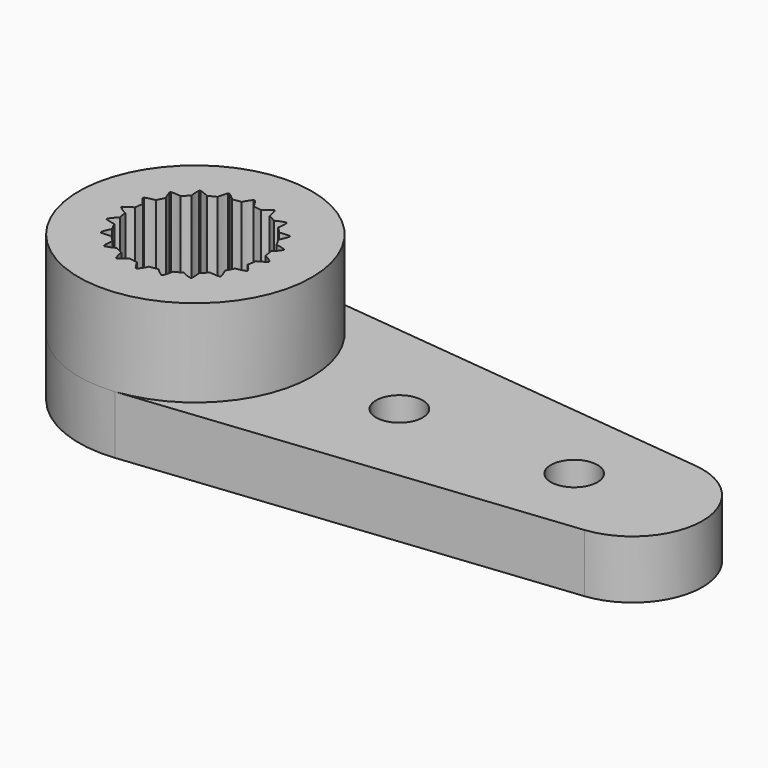
from build123d import *

# Parameters (mm, degrees)
PAD002_DEPTH  = 3
SKETCH_R      = 4
SKETCH_R_2    = 2.25
PAD001_DEPTH  = 3
PAD_DEPTH     = 2
SKETCH002_R   = 1.5
SKETCH002_R_2 = 0.8
POCKET_DEPTH  = 5


with BuildPart() as inner_gear:
    # InvoluteGear → Pad002 (new body)
    with BuildSketch(Plane(origin=(0, 0, 2), x_dir=(0.9876883406, 0.156434465, 0), z_dir=(0, 0, 1))):
        with BuildLine():
            add(Edge.make_bspline(
                [(2.5023944171, -0.3726554366), (2.4087323863, -0.2683318601), (2.3159247461, -0.189782531), (2.2314368651, -0.1339877862), (2.1598788026, -0.0957618967)],
                knots=[0, 0, 0, 0, 0, 1, 1, 1, 1, 1], degree=4))
            ThreePointArc((2.1598788026, -0.0957618967), (2.1577566573, -2.145e-07), (2.1598781768, 0.0957614815))
            add(Edge.make_bspline(
                [(2.1598781768, 0.0957614815), (2.2314368651, 0.1339877862), (2.3159247461, 0.189782531), (2.4087323863, 0.2683318601), (2.5023944171, 0.3726554366)],
                knots=[0, 0, 0, 0, 0, 1, 1, 1, 1, 1], degree=4))
            ThreePointArc((2.5023944171, 0.3726554366), (2.5019281328, 0.396266487), (2.4950753797, 0.4188660202))
            add(Edge.make_bspline(
                [(2.4950753797, 0.4188660202), (2.3737597369, 0.4891404782), (2.2612213483, 0.5351661915), (2.1636270742, 0.562121956), (2.0837588631, 0.5763642799)],
                knots=[0, 0, 0, 0, 0, 1, 1, 1, 1, 1], degree=4))
            ThreePointArc((2.0837588631, 0.5763642799), (2.0521485958, 0.6667832728), (2.0245742893, 0.7585136434))
            add(Edge.make_bspline(
                [(2.0245742893, 0.7585136434), (2.0808180683, 0.8169818704), (2.1439292937, 0.896154017), (2.2079215271, 0.9995380063), (2.2647616538, 1.1276987829)],
                knots=[0, 0, 0, 0, 0, 1, 1, 1, 1, 1], degree=4))
            ThreePointArc((2.2647616538, 1.1276987829), (2.2570219752, 1.1500101364), (2.2435209799, 1.1693859525))
            add(Edge.make_bspline(
                [(2.2435209799, 1.1693859525), (2.1064269455, 1.1987323384), (1.9851738502, 1.2077291184), (1.8840263905, 1.2032072846), (1.8036660877, 1.192071905)],
                knots=[0, 0, 0, 0, 0, 1, 1, 1, 1, 1], degree=4))
            ThreePointArc((1.8036660877, 1.192071905), (1.7456619316, 1.2682973676), (1.6910909642, 1.3470172051))
            add(Edge.make_bspline(
                [(1.6910909642, 1.3470172051), (1.726514301, 1.4200040768), (1.7620711044, 1.514803704), (1.7909839253, 1.6329024083), (1.8054382403, 1.7723551151)],
                knots=[0, 0, 0, 0, 0, 1, 1, 1, 1, 1], degree=4))
            ThreePointArc((1.8054382403, 1.7723551151), (1.791182781, 1.791182781), (1.7723551151, 1.8054382403))
            add(Edge.make_bspline(
                [(1.7723551151, 1.8054382403), (1.6329024083, 1.7909839253), (1.514803704, 1.7620711044), (1.4200040768, 1.726514301), (1.3470179087, 1.6910912264)],
                knots=[0, 0, 0, 0, 0, 1, 1, 1, 1, 1], degree=4))
            ThreePointArc((1.3470179087, 1.6910912264), (1.2682977147, 1.7456616794), (1.1920718731, 1.8036653374))
            add(Edge.make_bspline(
                [(1.1920718731, 1.8036653374), (1.2032072846, 1.8840263905), (1.2077291184, 1.9851738501), (1.1987323384, 2.1064269455), (1.1693859525, 2.2435209799)],
                knots=[0, 0, 0, 0, 0, 1, 1, 1, 1, 1], degree=4))
            ThreePointArc((1.1693859525, 2.2435209799), (1.1500101364, 2.2570219752), (1.1276987829, 2.2647616538))
            add(Edge.make_bspline(
                [(1.1276987829, 2.2647616538), (0.9995380063, 2.2079215271), (0.896154017, 2.1439292937), (0.8169818704, 2.0808180683), (0.7585142317, 2.0245747561)],
                knots=[0, 0, 0, 0, 0, 1, 1, 1, 1, 1], degree=4))
            ThreePointArc((0.7585142317, 2.0245747561), (0.6667836809, 2.0521484632), (0.5763644814, 2.0837581397))
            add(Edge.make_bspline(
                [(0.5763644814, 2.0837581397), (0.562121956, 2.1636270742), (0.5351661915, 2.2612213483), (0.4891404782, 2.3737597369), (0.4188660202, 2.4950753797)],
                knots=[0, 0, 0, 0, 0, 1, 1, 1, 1, 1], degree=4))
            ThreePointArc((0.4188660202, 2.4950753797), (0.396266487, 2.5019281328), (0.3726554366, 2.5023944171))
            add(Edge.make_bspline(
                [(0.3726554366, 2.5023944171), (0.2683318601, 2.4087323863), (0.189782531, 2.3159247461), (0.1339877862, 2.2314368651), (0.0957618967, 2.1598788026)],
                knots=[0, 0, 0, 0, 0, 1, 1, 1, 1, 1], degree=4))
            ThreePointArc((0.0957618967, 2.1598788026), (2.145e-07, 2.1577566573), (-0.0957614815, 2.1598781768))
            add(Edge.make_bspline(
                [(-0.0957614815, 2.1598781768), (-0.1339877862, 2.2314368651), (-0.189782531, 2.3159247461), (-0.2683318601, 2.4087323863), (-0.3726554366, 2.5023944171)],
                knots=[0, 0, 0, 0, 0, 1, 1, 1, 1, 1], degree=4))
            ThreePointArc((-0.3726554366, 2.5023944171), (-0.396266487, 2.5019281328), (-0.4188660202, 2.4950753797))
            add(Edge.make_bspline(
                [(-0.4188660202, 2.4950753797), (-0.4891404782, 2.3737597369), (-0.5351661915, 2.2612213483), (-0.562121956, 2.1636270742), (-0.5763642799, 2.0837588631)],
                knots=[0, 0, 0, 0, 0, 1, 1, 1, 1, 1], degree=4))
            ThreePointArc((-0.5763642799, 2.0837588631), (-0.6667832728, 2.0521485958), (-0.7585136434, 2.0245742893))
            add(Edge.make_bspline(
                [(-0.7585136434, 2.0245742893), (-0.8169818704, 2.0808180683), (-0.896154017, 2.1439292937), (-0.9995380063, 2.2079215271), (-1.1276987829, 2.2647616538)],
                knots=[0, 0, 0, 0, 0, 1, 1, 1, 1, 1], degree=4))
            ThreePointArc((-1.1276987829, 2.2647616538), (-1.1500101364, 2.2570219752), (-1.1693859525, 2.2435209799))
            add(Edge.make_bspline(
                [(-1.1693859525, 2.2435209799), (-1.1987323384, 2.1064269455), (-1.2077291184, 1.9851738502), (-1.2032072846, 1.8840263905), (-1.192071905, 1.8036660877)],
                knots=[0, 0, 0, 0, 0, 1, 1, 1, 1, 1], degree=4))
            ThreePointArc((-1.192071905, 1.8036660877), (-1.2682973676, 1.7456619316), (-1.3470172051, 1.6910909642))
            add(Edge.make_bspline(
                [(-1.3470172051, 1.6910909642), (-1.4200040768, 1.726514301), (-1.514803704, 1.7620711044), (-1.6329024083, 1.7909839253), (-1.7723551151, 1.8054382403)],
                knots=[0, 0, 0, 0, 0, 1, 1, 1, 1, 1], degree=4))
            ThreePointArc((-1.7723551151, 1.8054382403), (-1.791182781, 1.791182781), (-1.8054382403, 1.7723551151))
            add(Edge.make_bspline(
                [(-1.8054382403, 1.7723551151), (-1.7909839253, 1.6329024083), (-1.7620711044, 1.514803704), (-1.726514301, 1.4200040768), (-1.6910912264, 1.3470179087)],
                knots=[0, 0, 0, 0, 0, 1, 1, 1, 1, 1], degree=4))
            ThreePointArc((-1.6910912264, 1.3470179087), (-1.7456616794, 1.2682977147), (-1.8036653374, 1.1920718731))
            add(Edge.make_bspline(
                [(-1.8036653374, 1.1920718731), (-1.8840263905, 1.2032072846), (-1.9851738501, 1.2077291184), (-2.1064269455, 1.1987323384), (-2.2435209799, 1.1693859525)],
                knots=[0, 0, 0, 0, 0, 1, 1, 1, 1, 1], degree=4))
            ThreePointArc((-2.2435209799, 1.1693859525), (-2.2570219752, 1.1500101364), (-2.2647616538, 1.1276987829))
            add(Edge.make_bspline(
                [(-2.2647616538, 1.1276987829), (-2.2079215271, 0.9995380063), (-2.1439292937, 0.896154017), (-2.0808180683, 0.8169818704), (-2.0245747561, 0.7585142317)],
                knots=[0, 0, 0, 0, 0, 1, 1, 1, 1, 1], degree=4))
            ThreePointArc((-2.0245747561, 0.7585142317), (-2.0521484632, 0.6667836809), (-2.0837581397, 0.5763644814))
            add(Edge.make_bspline(
                [(-2.0837581397, 0.5763644814), (-2.1636270742, 0.562121956), (-2.2612213483, 0.5351661915), (-2.3737597369, 0.4891404782), (-2.4950753797, 0.4188660202)],
                knots=[0, 0, 0, 0, 0, 1, 1, 1, 1, 1], degree=4))
            ThreePointArc((-2.4950753797, 0.4188660202), (-2.5019281328, 0.396266487), (-2.5023944171, 0.3726554366))
            add(Edge.make_bspline(
                [(-2.5023944171, 0.3726554366), (-2.4087323863, 0.2683318601), (-2.3159247461, 0.189782531), (-2.2314368651, 0.1339877862), (-2.1598788026, 0.0957618967)],
                knots=[0, 0, 0, 0, 0, 1, 1, 1, 1, 1], degree=4))
            ThreePointArc((-2.1598788026, 0.0957618967), (-2.1577566573, 2.145e-07), (-2.1598781768, -0.0957614815))
            add(Edge.make_bspline(
                [(-2.1598781768, -0.0957614815), (-2.2314368651, -0.1339877862), (-2.3159247461, -0.189782531), (-2.4087323863, -0.2683318601), (-2.5023944171, -0.3726554366)],
                knots=[0, 0, 0, 0, 0, 1, 1, 1, 1, 1], degree=4))
            ThreePointArc((-2.5023944171, -0.3726554366), (-2.5019281328, -0.396266487), (-2.4950753797, -0.4188660202))
            add(Edge.make_bspline(
                [(-2.4950753797, -0.4188660202), (-2.3737597369, -0.4891404782), (-2.2612213483, -0.5351661915), (-2.1636270742, -0.562121956), (-2.0837588631, -0.5763642799)],
                knots=[0, 0, 0, 0, 0, 1, 1, 1, 1, 1], degree=4))
            ThreePointArc((-2.0837588631, -0.5763642799), (-2.0521485958, -0.6667832728), (-2.0245742893, -0.7585136434))
            add(Edge.make_bspline(
                [(-2.0245742893, -0.7585136434), (-2.0808180683, -0.8169818704), (-2.1439292937, -0.896154017), (-2.2079215271, -0.9995380063), (-2.2647616538, -1.1276987829)],
                knots=[0, 0, 0, 0, 0, 1, 1, 1, 1, 1], degree=4))
            ThreePointArc((-2.2647616538, -1.1276987829), (-2.2570219752, -1.1500101364), (-2.2435209799, -1.1693859525))
            add(Edge.make_bspline(
                [(-2.2435209799, -1.1693859525), (-2.1064269455, -1.1987323384), (-1.9851738502, -1.2077291184), (-1.8840263905, -1.2032072846), (-1.8036660877, -1.192071905)],
                knots=[0, 0, 0, 0, 0, 1, 1, 1, 1, 1], degree=4))
            ThreePointArc((-1.8036660877, -1.192071905), (-1.7456619316, -1.2682973676), (-1.6910909642, -1.3470172051))
            add(Edge.make_bspline(
                [(-1.6910909642, -1.3470172051), (-1.726514301, -1.4200040768), (-1.7620711044, -1.514803704), (-1.7909839253, -1.6329024083), (-1.8054382403, -1.7723551151)],
                knots=[0, 0, 0, 0, 0, 1, 1, 1, 1, 1], degree=4))
            ThreePointArc((-1.8054382403, -1.7723551151), (-1.791182781, -1.791182781), (-1.7723551151, -1.8054382403))
            add(Edge.make_bspline(
                [(-1.7723551151, -1.8054382403), (-1.6329024083, -1.7909839253), (-1.514803704, -1.7620711044), (-1.4200040768, -1.726514301), (-1.3470179087, -1.6910912264)],
                knots=[0, 0, 0, 0, 0, 1, 1, 1, 1, 1], degree=4))
            ThreePointArc((-1.3470179087, -1.6910912264), (-1.2682977147, -1.7456616794), (-1.1920718731, -1.8036653374))
            add(Edge.make_bspline(
                [(-1.1920718731, -1.8036653374), (-1.2032072846, -1.8840263905), (-1.2077291184, -1.9851738501), (-1.1987323384, -2.1064269455), (-1.1693859525, -2.2435209799)],
                knots=[0, 0, 0, 0, 0, 1, 1, 1, 1, 1], degree=4))
            ThreePointArc((-1.1693859525, -2.2435209799), (-1.1500101364, -2.2570219752), (-1.1276987829, -2.2647616538))
            add(Edge.make_bspline(
                [(-1.1276987829, -2.2647616538), (-0.9995380063, -2.2079215271), (-0.896154017, -2.1439292937), (-0.8169818704, -2.0808180683), (-0.7585142317, -2.0245747561)],
                knots=[0, 0, 0, 0, 0, 1, 1, 1, 1, 1], degree=4))
            ThreePointArc((-0.7585142317, -2.0245747561), (-0.6667836809, -2.0521484632), (-0.5763644814, -2.0837581397))
            add(Edge.make_bspline(
                [(-0.5763644814, -2.0837581397), (-0.562121956, -2.1636270742), (-0.5351661915, -2.2612213483), (-0.4891404782, -2.3737597369), (-0.4188660202, -2.4950753797)],
                knots=[0, 0, 0, 0, 0, 1, 1, 1, 1, 1], degree=4))
            ThreePointArc((-0.4188660202, -2.4950753797), (-0.396266487, -2.5019281328), (-0.3726554366, -2.5023944171))
            add(Edge.make_bspline(
                [(-0.3726554366, -2.5023944171), (-0.2683318601, -2.4087323863), (-0.189782531, -2.3159247461), (-0.1339877862, -2.2314368651), (-0.0957618967, -2.1598788026)],
                knots=[0, 0, 0, 0, 0, 1, 1, 1, 1, 1], degree=4))
            ThreePointArc((-0.0957618967, -2.1598788026), (-2.145e-07, -2.1577566573), (0.0957614815, -2.1598781768))
            add(Edge.make_bspline(
                [(0.0957614815, -2.1598781768), (0.1339877862, -2.2314368651), (0.189782531, -2.3159247461), (0.2683318601, -2.4087323863), (0.3726554366, -2.5023944171)],
                knots=[0, 0, 0, 0, 0, 1, 1, 1, 1, 1], degree=4))
            ThreePointArc((0.3726554366, -2.5023944171), (0.396266487, -2.5019281328), (0.4188660202, -2.4950753797))
            add(Edge.make_bspline(
                [(0.4188660202, -2.4950753797), (0.4891404782, -2.3737597369), (0.5351661915, -2.2612213483), (0.562121956, -2.1636270742), (0.5763642799, -2.0837588631)],
                knots=[0, 0, 0, 0, 0, 1, 1, 1, 1, 1], degree=4))
            ThreePointArc((0.5763642799, -2.0837588631), (0.6667832728, -2.0521485958), (0.7585136434, -2.0245742893))
            add(Edge.make_bspline(
                [(0.7585136434, -2.0245742893), (0.8169818704, -2.0808180683), (0.896154017, -2.1439292937), (0.9995380063, -2.2079215271), (1.1276987829, -2.2647616538)],
                knots=[0, 0, 0, 0, 0, 1, 1, 1, 1, 1], degree=4))
            ThreePointArc((1.1276987829, -2.2647616538), (1.1500101364, -2.2570219752), (1.1693859525, -2.2435209799))
            add(Edge.make_bspline(
                [(1.1693859525, -2.2435209799), (1.1987323384, -2.1064269455), (1.2077291184, -1.9851738502), (1.2032072846, -1.8840263905), (1.192071905, -1.8036660877)],
                knots=[0, 0, 0, 0, 0, 1, 1, 1, 1, 1], degree=4))
            ThreePointArc((1.192071905, -1.8036660877), (1.2682973676, -1.7456619316), (1.3470172051, -1.6910909642))
            add(Edge.make_bspline(
                [(1.3470172051, -1.6910909642), (1.4200040768, -1.726514301), (1.514803704, -1.7620711044), (1.6329024083, -1.7909839253), (1.7723551151, -1.8054382403)],
                knots=[0, 0, 0, 0, 0, 1, 1, 1, 1, 1], degree=4))
            ThreePointArc((1.7723551151, -1.8054382403), (1.791182781, -1.791182781), (1.8054382403, -1.7723551151))
            add(Edge.make_bspline(
                [(1.8054382403, -1.7723551151), (1.7909839253, -1.6329024083), (1.7620711044, -1.514803704), (1.726514301, -1.4200040768), (1.6910912264, -1.3470179087)],
                knots=[0, 0, 0, 0, 0, 1, 1, 1, 1, 1], degree=4))
            ThreePointArc((1.6910912264, -1.3470179087), (1.7456616794, -1.2682977147), (1.8036653374, -1.1920718731))
            add(Edge.make_bspline(
                [(1.8036653374, -1.1920718731), (1.8840263905, -1.2032072846), (1.9851738501, -1.2077291184), (2.1064269455, -1.1987323384), (2.2435209799, -1.1693859525)],
                knots=[0, 0, 0, 0, 0, 1, 1, 1, 1, 1], degree=4))
            ThreePointArc((2.2435209799, -1.1693859525), (2.2570219752, -1.1500101364), (2.2647616538, -1.1276987829))
            add(Edge.make_bspline(
                [(2.2647616538, -1.1276987829), (2.2079215271, -0.9995380063), (2.1439292937, -0.896154017), (2.0808180683, -0.8169818704), (2.0245747561, -0.7585142317)],
                knots=[0, 0, 0, 0, 0, 1, 1, 1, 1, 1], degree=4))
            ThreePointArc((2.0245747561, -0.7585142317), (2.0521484632, -0.6667836809), (2.0837581397, -0.5763644814))
            add(Edge.make_bspline(
                [(2.0837581397, -0.5763644814), (2.1636270742, -0.562121956), (2.2612213483, -0.5351661915), (2.3737597369, -0.4891404782), (2.4950753797, -0.4188660202)],
                knots=[0, 0, 0, 0, 0, 1, 1, 1, 1, 1], degree=4))
            ThreePointArc((2.4950753797, -0.4188660202), (2.5019281328, -0.396266487), (2.5023944171, -0.3726554366))
        make_face()
    extrude(amount=PAD002_DEPTH)


with BuildPart() as ring_holder_w_gear:
    # Sketch → Pad001 (new body)
    with BuildSketch(Plane.XY.offset(2)):
        Circle(SKETCH_R)
        Circle(SKETCH_R_2, mode=Mode.SUBTRACT)
    extrude(amount=PAD001_DEPTH)

    # Cut: cut Inner Gear
    add(inner_gear.part, mode=Mode.SUBTRACT)


with BuildPart() as fusion:
    # Sketch001 → Pad (new body)
    with BuildSketch(Plane.XY):
        with BuildLine():
            Line((0.4266666667, 3.9771793467), (15.256, 2.386307608))
            ThreePointArc((15.256, -2.386307608), (17.4, 0), (15.256, 2.386307608))
            Line((0.4266666667, -3.9771793467), (15.256, -2.386307608))
            ThreePointArc((0.4266666667, 3.9771793467), (-4, 0), (0.4266666667, -3.9771793467))
        make_face()
    extrude(amount=PAD_DEPTH)

    # Sketch002 → Pocket (cut)
    with BuildSketch(Plane.XY.offset(2)):
        Circle(SKETCH002_R)
        with Locations((7, 0)):
            Circle(SKETCH002_R_2)
        with Locations((13, 0)):
            Circle(SKETCH002_R_2)
    extrude(amount=-POCKET_DEPTH, mode=Mode.SUBTRACT)

    # Fusion: union Ring Holder w Gear
    add(ring_holder_w_gear.part)


solid = fusion.part
